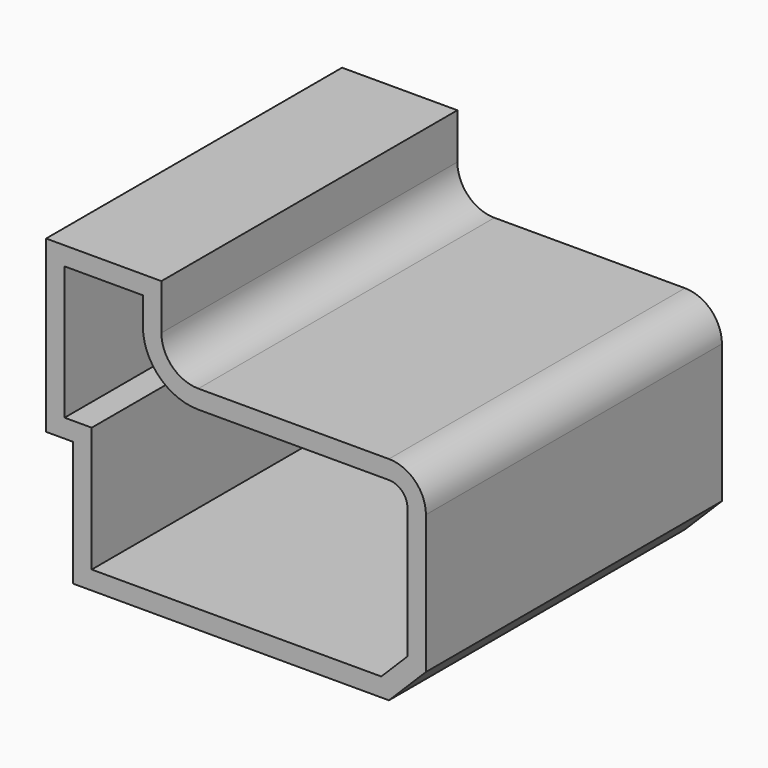
from build123d import *

# Parameters (mm, degrees)
F0_W     = 12.1070817113
F0_H     = 12.026887387
F1_DEPTH = 50.8
F2_R     = 5.08
F3_SIZE  = 5.08
F4_T     = -2.54


with BuildPart() as f1:
    # F0 (on Front) → F1 (new body)
    with BuildSketch(Plane.XZ):
        Polygon((-97.7879613638, 32.6970815659), (-97.7879613638, 44.7239689529), (-85.6808796525, 44.7239689529), (-85.6808796525, 56.0660995543), (-101.5132069588, 56.0660995543), (-101.5132069588, 32.6970815659), align=None)
        with Locations((-91.7344205081, 38.7105252594)):
            Rectangle(F0_W, F0_H)
        Polygon((-49.3596345186, 44.7239689529), (-85.6808796525, 44.7239689529), (-85.6808796525, 32.6970815659), (-97.7879613638, 32.6970815659), (-97.7879613638, 15.5531428754), (-49.3596345186, 15.5531428754), align=None)
    extrude(amount=F1_DEPTH)

    # F2
    f2_edges = [f1.edges().sort_by_distance(p)[0] for p in [
        (-85.68088, -25.4, 44.723969),
        (-49.359635, -25.4, 44.723969),
    ]]
    fillet(f2_edges, radius=F2_R)

    # F3
    f3_edges = [f1.edges().sort_by_distance(p)[0] for p in [
        (-49.359635, -25.4, 15.553143),
    ]]
    chamfer(f3_edges, length=F3_SIZE)

    # F4
    f4_openings = [f1.faces().sort_by_distance(p)[0] for p in [
        (-76.801986, -50.8, 32.724788),
    ]]
    offset(amount=F4_T, openings=f4_openings, kind=Kind.INTERSECTION)


solid = f1.part
